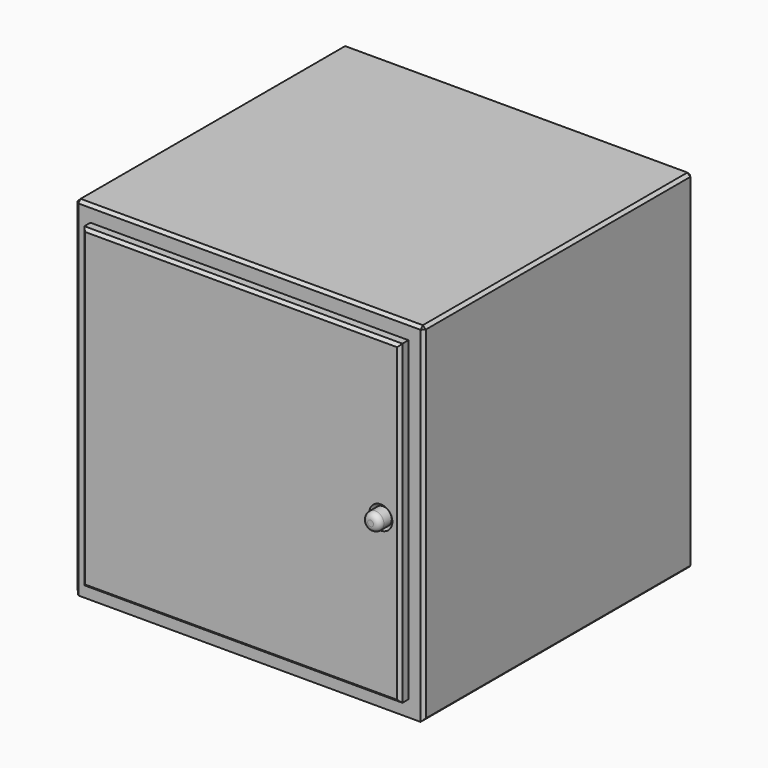
from build123d import *

# Parameters (mm, degrees)
F0_W      = 600
F0_H      = 600
F0_W_2    = 548.26182127
F0_H_2    = 545.0347065926
F1_DEPTH  = 550
F2_DEPTH  = 30
F0_R      = 14.9962807739
F3_DEPTH  = 18
F4_SIZE   = 5
F4_2_SIZE = 5
F5_DEPTH  = 40
F6_R      = 10


with BuildPart() as f1:
    # F0 (on Front) → F1 (new body)
    with BuildSketch(Plane.XZ):
        Rectangle(F0_W, F0_H)
        Rectangle(F0_W_2, F0_H_2, mode=Mode.SUBTRACT)
    extrude(amount=-F1_DEPTH)

    # F2 (add): a face of the model
    f2_faces = [f1.faces().sort_by_distance(p)[0] for p in [
        (0, 550, 291.5147186258),
    ]]
    extrude(f2_faces, amount=F2_DEPTH)

    # F4
    f4_edges = [f1.edges().sort_by_distance(p)[0] for p in [
        (-300, 290, 300),
        (-300, 580, 0),
        (-300, 290, -300),
        (-300, 0, 0),
        (300, 290, 300),
        (0, 580, 300),
        (0, 0, 300),
        (300, 290, -300),
        (300, 580, 0),
        (300, 0, 0),
    ]]
    chamfer(f4_edges, length=F4_SIZE)


with BuildPart() as f3:
    # F0 (on Front) → F3 (new body)
    with BuildSketch(Plane.XZ):
        Rectangle(F0_W_2, F0_H_2)
        with Locations((240.8218532801, 0)):
            Circle(F0_R, mode=Mode.SUBTRACT)
    extrude(amount=F3_DEPTH)

    # F4#2
    f4_2_edges = [f3.edges().sort_by_distance(p)[0] for p in [
        (0, -18, 272.517353),
        (-274.130911, -18, 0),
        (0, -18, -272.517353),
        (274.130911, -18, 0),
        (225.825573, -18, 0),
    ]]
    chamfer(f4_2_edges, length=F4_2_SIZE)

    # F0 (on Front) → F5 (join)
    with BuildSketch(Plane.XZ):
        with Locations((240.8218532801, 0)):
            Circle(F0_R)
    extrude(amount=F5_DEPTH)

    # F6
    f6_edges = [f3.edges().sort_by_distance(p)[0] for p in [
        (225.825573, -40, 0),
    ]]
    fillet(f6_edges, radius=F6_R)


solid = Compound([f1.part, f3.part])
